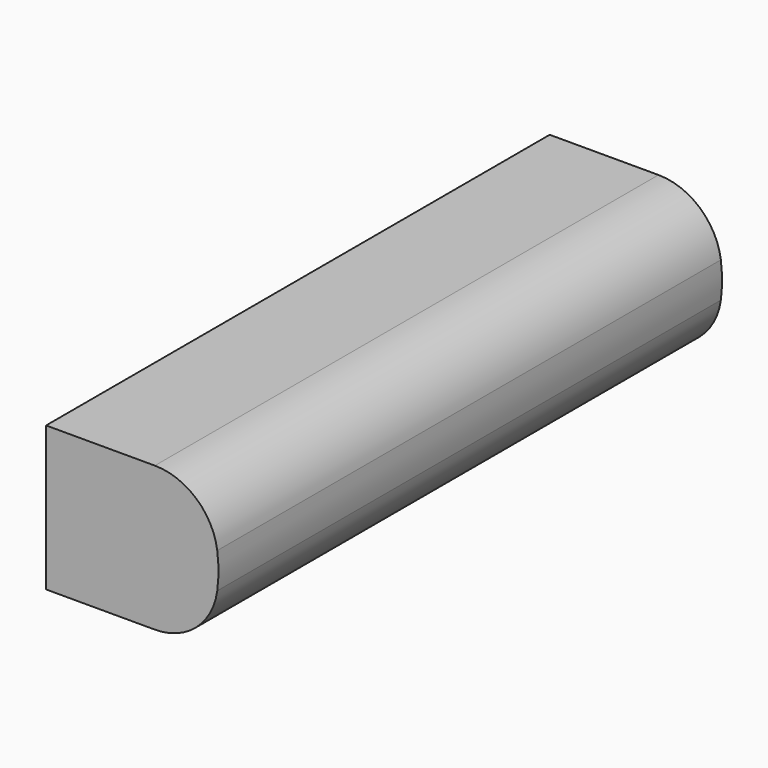
from build123d import *

# Parameters (mm, degrees)
F0_W     = 30.4185468704
F0_H     = 29.1280644014
F1_DEPTH = 127
F2_R     = 12.7


with BuildPart() as f1:
    # F0 (on Front) → F1 (new body)
    with BuildSketch(Plane.XZ):
        with Locations((-12.9554374143, -3.2489183359)):
            Rectangle(F0_W, F0_H)
        with BuildLine():
            ThreePointArc((2.2538360208, -17.8129505366), (6.6092482704, -3.2489183359), (2.2538360208, 11.3151138648))
            Line((2.2538360208, 11.3151138648), (2.2538360208, -17.8129505366))
        make_face()
    extrude(amount=F1_DEPTH)

    # F2
    f2_edges = [f1.edges().sort_by_distance(p)[0] for p in [
        (2.253836, -63.5, 11.315114),
        (2.253836, -63.5, -17.812951),
    ]]
    fillet(f2_edges, radius=F2_R)


solid = f1.part
